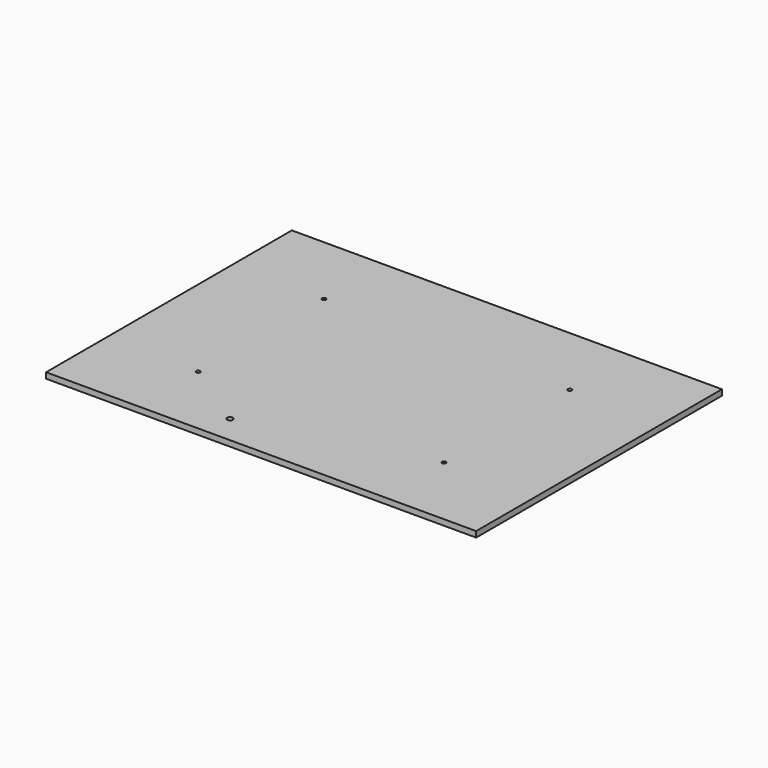
from build123d import *

# Parameters (mm, degrees)
F0_W           = 711.2
F0_H           = 508
F1_DEPTH       = 9.525
F3_D           = 1.190625
F3_CSINK_D     = 6.35
F3_CSINK_ANGLE = 90
F5_D           = 9.398


with BuildPart() as f1:
    # F0 (on Top) → F1 (new body)
    with BuildSketch(Plane.XY):
        Rectangle(F0_W, F0_H)
    extrude(amount=F1_DEPTH)

    # F3 (through all)
    with Locations(Plane.XY.offset(9.525)):
        with Locations((-203.2, 130.1496), (-203.2, -130.1496), (203.2, 130.1496), (203.2, -130.1496)):
            CounterSinkHole(F3_D / 2, F3_CSINK_D / 2, counter_sink_angle=F3_CSINK_ANGLE)

    # F5 (through all)
    with Locations(Plane.XY.offset(9.525)):
        with Locations((-88.773, -207.2894)):
            Hole(F5_D / 2)


solid = f1.part
